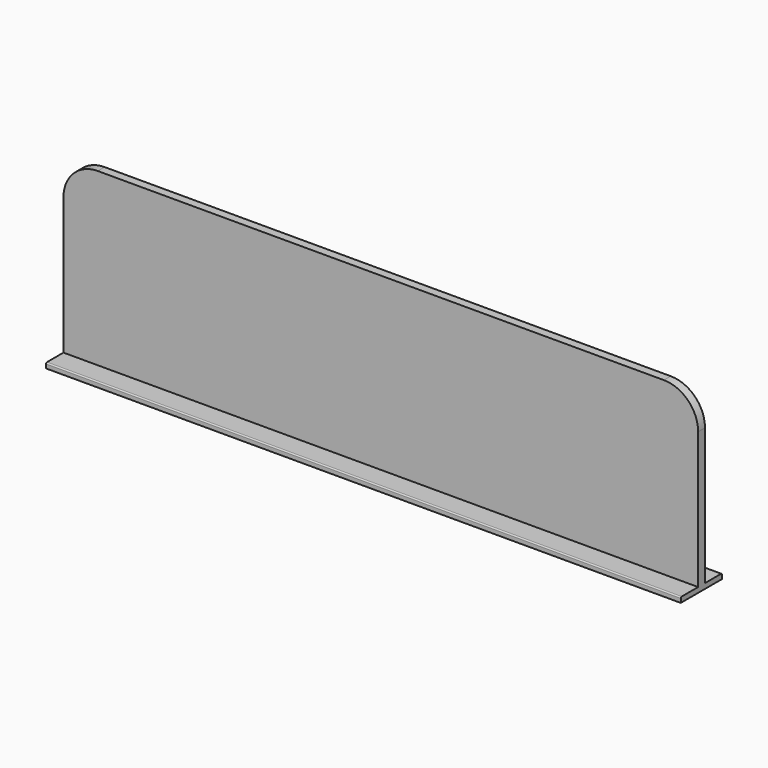
from build123d import *

# Parameters (mm, degrees)
F1_DEPTH = 5
F3_DEPTH = 185


with BuildPart() as f1:
    # F0 (on Front) → F1 (new body)
    with BuildSketch(Plane.XZ):
        with BuildLine():
            ThreePointArc((185, 30), (179.1421356237, 44.1421356237), (165, 50))
            Line((165, 50), (-165, 50))
            ThreePointArc((-165, 50), (-179.1421356237, 44.1421356237), (-185, 30))
            Line((-185, 30), (-185, -50))
            Line((-185, -50), (185, -50))
            Line((185, -50), (185, 30))
        make_face()
    extrude(amount=F1_DEPTH)

    # F2 (on Right) → F3 (join, symmetric)
    with BuildSketch(Plane.YZ):
        with BuildLine():
            ThreePointArc((12.3411369137, -50.3849132597), (12.1417214903, -49.9034818398), (11.6602900704, -49.7040664163))
            Line((11.6602900704, -49.7040664163), (-16.9780162429, -49.7040664163))
            ThreePointArc((-16.9780162429, -49.7040664163), (-17.4594476628, -49.9034818398), (-17.6588630863, -50.3849132597))
            Line((-17.6588630863, -50.3849132597), (-17.6588630863, -52.7040664163))
            Line((-17.6588630863, -52.7040664163), (12.3411369137, -52.7040664163))
            Line((12.3411369137, -52.7040664163), (12.3411369137, -50.3849132597))
        make_face()
    extrude(amount=F3_DEPTH, both=True)


solid = f1.part
